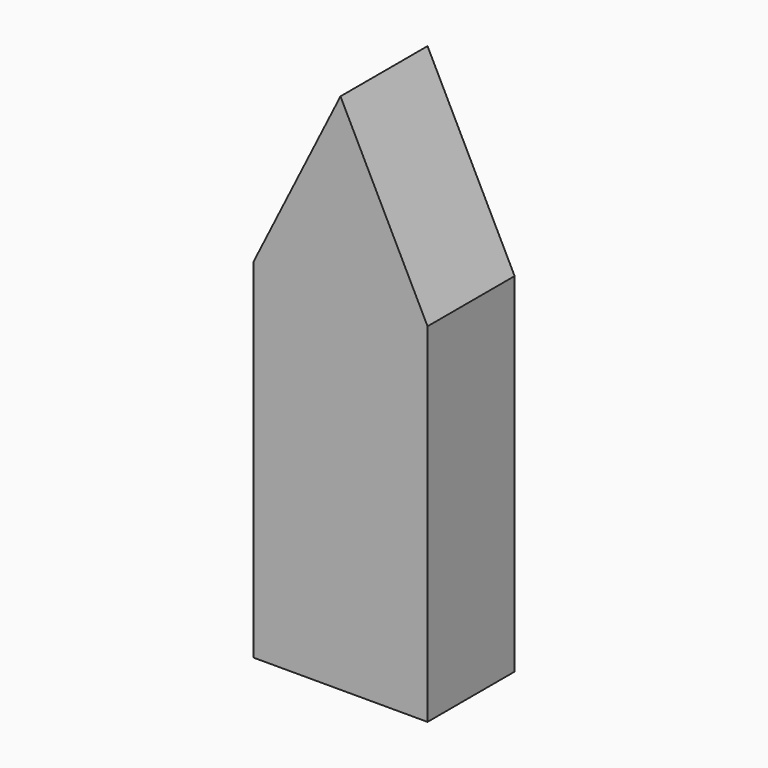
from build123d import *

# Parameters (mm, degrees)
F0_W     = 40
F0_H     = 80
F1_DEPTH = 25


with BuildPart() as f1:
    # F0 (on Front) → F1 (new body)
    with BuildSketch(Plane.XZ):
        Rectangle(F0_W, F0_H)
        Polygon((-20, 40), (20, 40), (0, 80), align=None)
    extrude(amount=F1_DEPTH)


solid = f1.part
